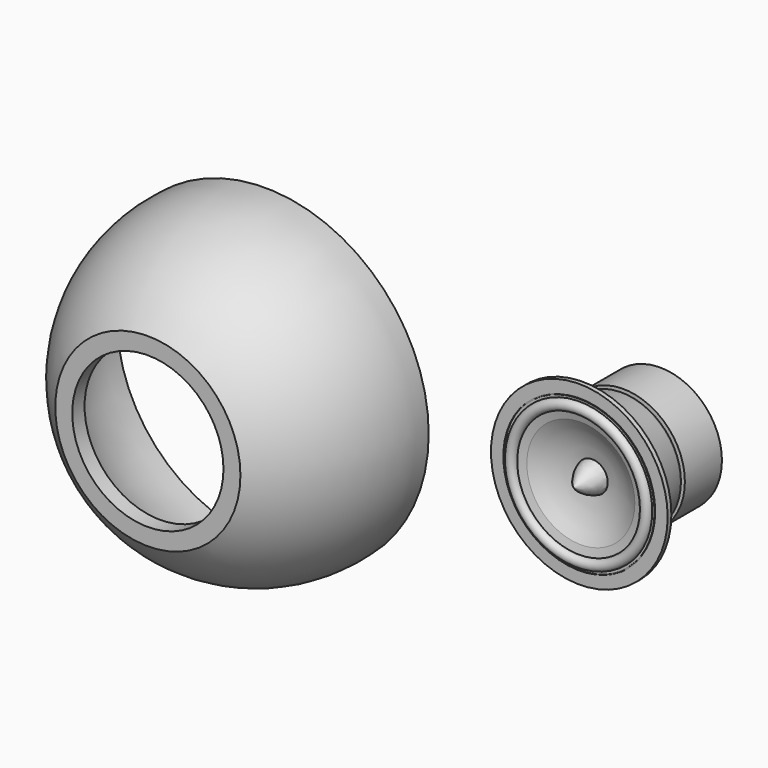
from build123d import *

# Parameters (mm, degrees)
F6_R     = 49
F7_DEPTH = 10


with BuildPart() as f2:
    # F0 (on Top) → F2 (revolve)
    with BuildSketch(Plane.XY):
        with BuildLine():
            Line((0, -85), (0, -95))
            Line((0, -95), (60, -95))
            ThreePointArc((60, -95), (95.66539, -53.632715), (106, 0))
            Line((106, 0), (96, 0))
            ThreePointArc((96, 0), (87.550254, -47.570117), (57, -85))
            Line((57, -85), (0, -85))
        make_face()
    revolve(axis=Axis((0, 46.997083, 0), (0, 1, 0)))

    # F6 (on face) → F7 (cut)
    with BuildSketch(Plane.XZ.offset(95)):
        Circle(F6_R)
    extrude(amount=-F7_DEPTH, mode=Mode.SUBTRACT)


with BuildPart() as f5:
    # F3 (on Top) → F5 (revolve)
    with BuildSketch(Plane.XY):
        with BuildLine():
            Line((240, 70), (200, 70))
            Line((200, 70), (200, 0))
            ThreePointArc((200, 0), (206.288901, 6.640732), (210, 15))
            ThreePointArc((210, 15), (223.022351, 11.764457), (235, 5.715796))
            Line((235, 5.715796), (240.25, 4.5))
            ThreePointArc((240.25, 4.5), (243.75, 1), (247.25, 4.5))
            Line((247.25, 4.5), (248.75, 4.5))
            Line((248.75, 4.5), (248.75, 5))
            Line((248.75, 5), (249.25, 5))
            Line((249.25, 5), (249.25, 4.5))
            Line((249.25, 4.5), (257.25, 4.5))
            Line((257.25, 4.5), (257.25, 7.5))
            Line((257.25, 7.5), (247.25, 7.5))
            Line((247.25, 7.5), (238.918243, 37.6956))
            ThreePointArc((238.918243, 37.6956), (237.859193, 39.354443), (236, 40))
            Line((236, 40), (240, 40))
            Line((240, 40), (240, 70))
        make_face()
    revolve(axis=Axis((200, 32.166739, 0), (0, -1, 0)))


solid = Compound([f2.part, f5.part])
